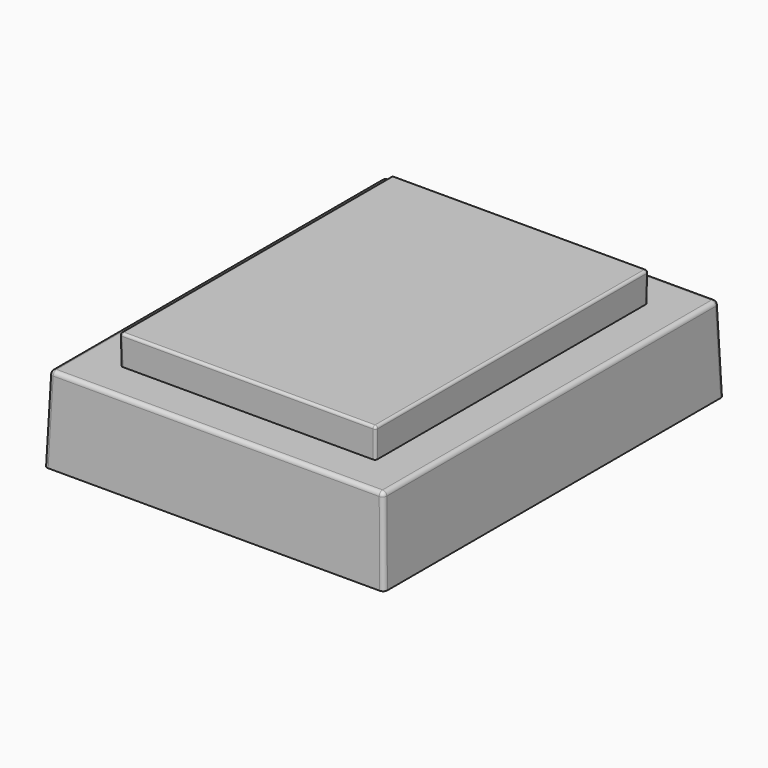
from build123d import *

# Parameters (mm, degrees)
F0_W     = 80
F0_H     = 100
F1_DEPTH = 20
F1_TAPER = 2
F2_W     = 60
F2_H     = 80
F3_DEPTH = 7
F3_TAPER = -1
F4_R     = 1
F5_R     = 0.6


with BuildPart() as f1:
    # F0 (on Top) → F1 (new body)
    with BuildSketch(Plane.XY):
        Rectangle(F0_W, F0_H)
    extrude(amount=F1_DEPTH, taper=F1_TAPER)

    # F2 (on face) → F3 (join)
    with BuildSketch(Plane.XY.offset(20)):
        Rectangle(F2_W, F2_H)
    extrude(amount=F3_DEPTH, taper=F3_TAPER)

    # F4
    f4_edges = [f1.edges().sort_by_distance(p)[0] for p in [
        (-39.650792, 49.650792, 10),
        (39.650792, 49.650792, 10),
        (39.650792, -49.650792, 10),
        (-39.650792, -49.650792, 10),
        (0, 49.301585, 20),
        (-39.301585, 0, 20),
        (0, -49.301585, 20),
        (39.301585, 0, 20),
    ]]
    fillet(f4_edges, radius=F4_R)

    # F5
    f5_edges = [f1.edges().sort_by_distance(p)[0] for p in [
        (-30.061093, 40.061093, 23.5),
        (-30.122185, 0, 27),
        (0, 40.122185, 27),
        (30.061093, 40.061093, 23.5),
        (30.122185, 0, 27),
        (30.061093, -40.061093, 23.5),
        (0, -40.122185, 27),
        (-30.061093, -40.061093, 23.5),
    ]]
    fillet(f5_edges, radius=F5_R)


solid = f1.part
